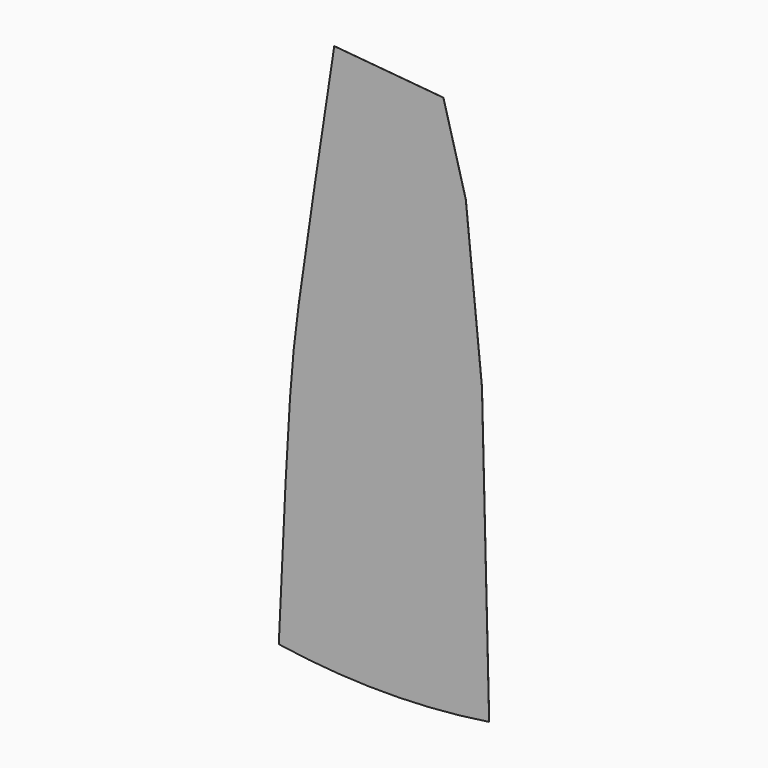
from build123d import *

# Parameters (mm, degrees)
F3_DEPTH = 1


with BuildPart() as f3:
    # F2 (on face) → F3 (new body)
    with BuildSketch(Plane.XZ):
        with BuildLine():
            add(Edge.make_bspline(
                [(0, 0), (42.7046461039, 949.5739841818), (112.432369512, 2500.0289853407), (224.0139745837, 3496.2047652429), (468.8398802864, 5098.1421986098), (620.1964285714, 6088.4937702183)],
                knots=[0, 0, 0, 0, 0.3762966151, 0.6144133881, 1, 1, 1, 1], degree=3))
            ThreePointArc((0, 0), (1176, -90), (2352, 0))
            Line((2352, 0), (2271.4523559318, 3267.6320372779))
            Line((2271.4523559318, 3267.6320372779), (2091.0197957494, 5055.7427885473))
            Line((2091.0197957494, 5055.7427885473), (1840.2150915805, 5978.1331707745))
            Line((1840.2150915805, 5978.1331707745), (620.1964285714, 6088.4937702183))
        make_face()
    extrude(amount=F3_DEPTH)


solid = f3.part
